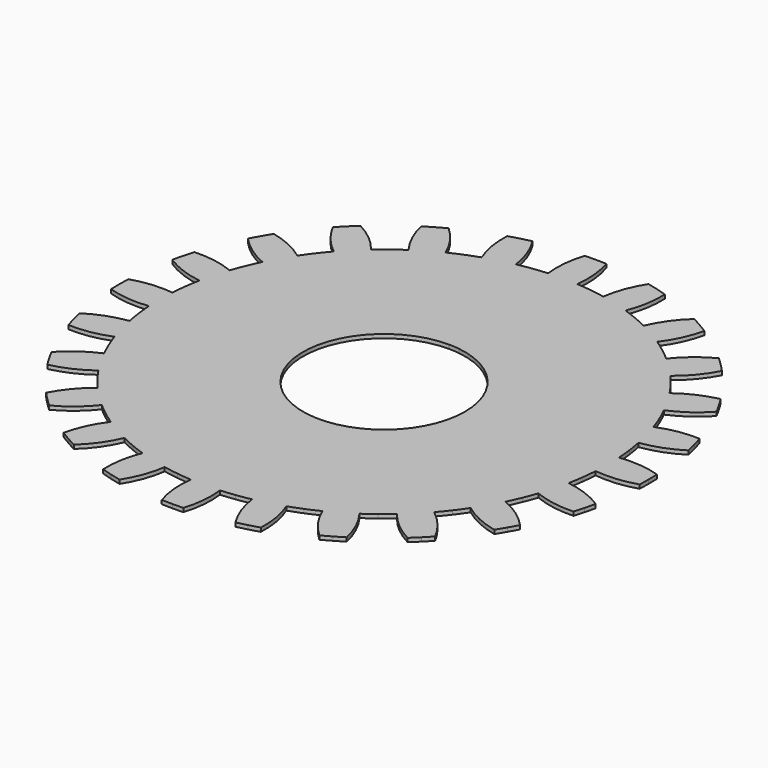
from build123d import *

# Parameters (mm, degrees)
F1_DEPTH = 0.1


with BuildPart() as f1:
    # F0 (on Top) → F1 (new body)
    with BuildSketch(Plane.XY):
        with BuildLine():
            Line((0.759771, 5.771035), (0.274758, 2.086991))
            ThreePointArc((0.274758, 2.086991), (1.582623, 1.387923), (2.105, 0))
            ThreePointArc((2.105, 0), (-1.48846, -1.48846), (0, 2.105))
            Line((0, 2.105), (0, 6.879167))
            ThreePointArc((0, 6.879167), (-0.14069, 6.877728), (-0.281322, 6.873412))
            ThreePointArc((-0.281322, 6.873412), (-0.388634, 6.346268), (-0.380701, 5.80837))
            ThreePointArc((-0.380701, 5.80837), (-0.570541, 5.792804), (-0.759771, 5.771035))
            ThreePointArc((-0.759771, 5.771035), (-0.948187, 5.743086), (-1.135588, 5.708988))
            ThreePointArc((-1.135588, 5.708988), (-1.267144, 6.23061), (-1.507234, 6.712018))
            ThreePointArc((-1.507234, 6.712018), (-1.644191, 6.679788), (-1.780459, 6.644765))
            ThreePointArc((-1.780459, 6.644765), (-1.915983, 6.606962), (-2.050706, 6.566395))
            ThreePointArc((-2.050706, 6.566395), (-2.017926, 6.029438), (-1.871046, 5.511922))
            ThreePointArc((-1.871046, 5.511922), (-2.050389, 5.447752), (-2.227536, 5.377749))
            ThreePointArc((-2.227536, 5.377749), (-2.402299, 5.301987), (-2.574489, 5.220547))
            ThreePointArc((-2.574489, 5.220547), (-2.836567, 5.690346), (-3.193074, 6.09321))
            ThreePointArc((-3.193074, 6.09321), (-3.317023, 6.026632), (-3.439583, 5.957533))
            ThreePointArc((-3.439583, 5.957533), (-3.560705, 5.885942), (-3.680338, 5.811888))
            ThreePointArc((-3.680338, 5.811888), (-3.5097, 5.301713), (-3.233882, 4.839846))
            ThreePointArc((-3.233882, 4.839846), (-3.390506, 4.731445), (-3.543499, 4.617978))
            ThreePointArc((-3.543499, 4.617978), (-3.692698, 4.499565), (-3.837942, 4.376334))
            ThreePointArc((-3.837942, 4.376334), (-4.212684, 4.762295), (-4.661312, 5.059161))
            ThreePointArc((-4.661312, 5.059161), (-4.763805, 4.962771), (-4.864305, 4.864305))
            ThreePointArc((-4.864305, 4.864305), (-4.962771, 4.763805), (-5.059161, 4.661312))
            ThreePointArc((-5.059161, 4.661312), (-4.762295, 4.212684), (-4.376334, 3.837942))
            ThreePointArc((-4.376334, 3.837942), (-4.499565, 3.692698), (-4.617978, 3.543499))
            ThreePointArc((-4.617978, 3.543499), (-4.731445, 3.390506), (-4.839846, 3.233882))
            ThreePointArc((-4.839846, 3.233882), (-5.301713, 3.5097), (-5.811888, 3.680338))
            ThreePointArc((-5.811888, 3.680338), (-5.885942, 3.560705), (-5.957533, 3.439583))
            ThreePointArc((-5.957533, 3.439583), (-6.026632, 3.317023), (-6.09321, 3.193074))
            ThreePointArc((-6.09321, 3.193074), (-5.690346, 2.836567), (-5.220547, 2.574489))
            ThreePointArc((-5.220547, 2.574489), (-5.301987, 2.402299), (-5.377749, 2.227536))
            ThreePointArc((-5.377749, 2.227536), (-5.447752, 2.050389), (-5.511922, 1.871046))
            ThreePointArc((-5.511922, 1.871046), (-6.029438, 2.017926), (-6.566395, 2.050706))
            ThreePointArc((-6.566395, 2.050706), (-6.606962, 1.915983), (-6.644765, 1.780459))
            ThreePointArc((-6.644765, 1.780459), (-6.679788, 1.644191), (-6.712018, 1.507234))
            ThreePointArc((-6.712018, 1.507234), (-6.23061, 1.267144), (-5.708988, 1.135588))
            ThreePointArc((-5.708988, 1.135588), (-5.743086, 0.948187), (-5.771035, 0.759771))
            ThreePointArc((-5.771035, 0.759771), (-5.792804, 0.570541), (-5.80837, 0.380701))
            ThreePointArc((-5.80837, 0.380701), (-6.346268, 0.388634), (-6.873412, 0.281322))
            ThreePointArc((-6.873412, 0.281322), (-6.877728, 0.14069), (-6.879167, 0))
            ThreePointArc((-6.879167, 0), (-6.877728, -0.14069), (-6.873412, -0.281322))
            ThreePointArc((-6.873412, -0.281322), (-6.346268, -0.388634), (-5.80837, -0.380701))
            ThreePointArc((-5.80837, -0.380701), (-5.792804, -0.570541), (-5.771035, -0.759771))
            ThreePointArc((-5.771035, -0.759771), (-5.743086, -0.948187), (-5.708988, -1.135588))
            ThreePointArc((-5.708988, -1.135588), (-6.23061, -1.267144), (-6.712018, -1.507234))
            ThreePointArc((-6.712018, -1.507234), (-6.679788, -1.644191), (-6.644765, -1.780459))
            ThreePointArc((-6.644765, -1.780459), (-6.606962, -1.915983), (-6.566395, -2.050706))
            ThreePointArc((-6.566395, -2.050706), (-6.029438, -2.017926), (-5.511922, -1.871046))
            ThreePointArc((-5.511922, -1.871046), (-5.447752, -2.050389), (-5.377749, -2.227536))
            ThreePointArc((-5.377749, -2.227536), (-5.301987, -2.402299), (-5.220547, -2.574489))
            ThreePointArc((-5.220547, -2.574489), (-5.690346, -2.836567), (-6.09321, -3.193074))
            ThreePointArc((-6.09321, -3.193074), (-6.026632, -3.317023), (-5.957533, -3.439583))
            ThreePointArc((-5.957533, -3.439583), (-5.885942, -3.560705), (-5.811888, -3.680338))
            ThreePointArc((-5.811888, -3.680338), (-5.301713, -3.5097), (-4.839846, -3.233882))
            ThreePointArc((-4.839846, -3.233882), (-4.731445, -3.390506), (-4.617978, -3.543499))
            ThreePointArc((-4.617978, -3.543499), (-4.499565, -3.692698), (-4.376334, -3.837942))
            ThreePointArc((-4.376334, -3.837942), (-4.762295, -4.212684), (-5.059161, -4.661312))
            ThreePointArc((-5.059161, -4.661312), (-4.962771, -4.763805), (-4.864305, -4.864305))
            ThreePointArc((-4.864305, -4.864305), (-4.763805, -4.962771), (-4.661312, -5.059161))
            ThreePointArc((-4.661312, -5.059161), (-4.212684, -4.762295), (-3.837942, -4.376334))
            ThreePointArc((-3.837942, -4.376334), (-3.692698, -4.499565), (-3.543499, -4.617978))
            ThreePointArc((-3.543499, -4.617978), (-3.390506, -4.731445), (-3.233882, -4.839846))
            ThreePointArc((-3.233882, -4.839846), (-3.5097, -5.301713), (-3.680338, -5.811888))
            ThreePointArc((-3.680338, -5.811888), (-3.560705, -5.885942), (-3.439583, -5.957533))
            ThreePointArc((-3.439583, -5.957533), (-3.317023, -6.026632), (-3.193074, -6.09321))
            ThreePointArc((-3.193074, -6.09321), (-2.836567, -5.690346), (-2.574489, -5.220547))
            ThreePointArc((-2.574489, -5.220547), (-2.402299, -5.301987), (-2.227536, -5.377749))
            ThreePointArc((-2.227536, -5.377749), (-2.050389, -5.447752), (-1.871046, -5.511922))
            ThreePointArc((-1.871046, -5.511922), (-2.017926, -6.029438), (-2.050706, -6.566395))
            ThreePointArc((-2.050706, -6.566395), (-1.915983, -6.606962), (-1.780459, -6.644765))
            ThreePointArc((-1.780459, -6.644765), (-1.644191, -6.679788), (-1.507234, -6.712018))
            ThreePointArc((-1.507234, -6.712018), (-1.267144, -6.23061), (-1.135588, -5.708988))
            ThreePointArc((-1.135588, -5.708988), (-0.948187, -5.743086), (-0.759771, -5.771035))
            ThreePointArc((-0.759771, -5.771035), (-0.570541, -5.792804), (-0.380701, -5.80837))
            ThreePointArc((-0.380701, -5.80837), (-0.388634, -6.346268), (-0.281322, -6.873412))
            ThreePointArc((-0.281322, -6.873412), (-0.14069, -6.877728), (0, -6.879167))
            ThreePointArc((0, -6.879167), (0.14069, -6.877728), (0.281322, -6.873412))
            ThreePointArc((0.281322, -6.873412), (0.388634, -6.346268), (0.380701, -5.80837))
            ThreePointArc((0.380701, -5.80837), (0.570541, -5.792804), (0.759771, -5.771035))
            ThreePointArc((0.759771, -5.771035), (0.948187, -5.743086), (1.135588, -5.708988))
            ThreePointArc((1.135588, -5.708988), (1.267144, -6.23061), (1.507234, -6.712018))
            ThreePointArc((1.507234, -6.712018), (1.644191, -6.679788), (1.780459, -6.644765))
            ThreePointArc((1.780459, -6.644765), (1.915983, -6.606962), (2.050706, -6.566395))
            ThreePointArc((2.050706, -6.566395), (2.017926, -6.029438), (1.871046, -5.511922))
            ThreePointArc((1.871046, -5.511922), (2.050389, -5.447752), (2.227536, -5.377749))
            ThreePointArc((2.227536, -5.377749), (2.402299, -5.301987), (2.574489, -5.220547))
            ThreePointArc((2.574489, -5.220547), (2.836567, -5.690346), (3.193074, -6.09321))
            ThreePointArc((3.193074, -6.09321), (3.317023, -6.026632), (3.439583, -5.957533))
            ThreePointArc((3.439583, -5.957533), (3.560705, -5.885942), (3.680338, -5.811888))
            ThreePointArc((3.680338, -5.811888), (3.5097, -5.301713), (3.233882, -4.839846))
            ThreePointArc((3.233882, -4.839846), (3.390506, -4.731445), (3.543499, -4.617978))
            ThreePointArc((3.543499, -4.617978), (3.692698, -4.499565), (3.837942, -4.376334))
            ThreePointArc((3.837942, -4.376334), (4.212684, -4.762295), (4.661312, -5.059161))
            ThreePointArc((4.661312, -5.059161), (4.763805, -4.962771), (4.864305, -4.864305))
            ThreePointArc((4.864305, -4.864305), (4.962771, -4.763805), (5.059161, -4.661312))
            ThreePointArc((5.059161, -4.661312), (4.762295, -4.212684), (4.376334, -3.837942))
            ThreePointArc((4.376334, -3.837942), (4.499565, -3.692698), (4.617978, -3.543499))
            ThreePointArc((4.617978, -3.543499), (4.731445, -3.390506), (4.839846, -3.233882))
            ThreePointArc((4.839846, -3.233882), (5.301713, -3.5097), (5.811888, -3.680338))
            ThreePointArc((5.811888, -3.680338), (5.885942, -3.560705), (5.957533, -3.439583))
            ThreePointArc((5.957533, -3.439583), (6.026632, -3.317023), (6.09321, -3.193074))
            ThreePointArc((6.09321, -3.193074), (5.690346, -2.836567), (5.220547, -2.574489))
            ThreePointArc((5.220547, -2.574489), (5.301987, -2.402299), (5.377749, -2.227536))
            ThreePointArc((5.377749, -2.227536), (5.447752, -2.050389), (5.511922, -1.871046))
            ThreePointArc((5.511922, -1.871046), (6.029438, -2.017926), (6.566395, -2.050706))
            ThreePointArc((6.566395, -2.050706), (6.606962, -1.915983), (6.644765, -1.780459))
            ThreePointArc((6.644765, -1.780459), (6.679788, -1.644191), (6.712018, -1.507234))
            ThreePointArc((6.712018, -1.507234), (6.23061, -1.267144), (5.708988, -1.135588))
            ThreePointArc((5.708988, -1.135588), (5.743086, -0.948187), (5.771035, -0.759771))
            ThreePointArc((5.771035, -0.759771), (5.792804, -0.570541), (5.80837, -0.380701))
            ThreePointArc((5.80837, -0.380701), (6.346268, -0.388634), (6.873412, -0.281322))
            ThreePointArc((6.873412, -0.281322), (6.877728, -0.14069), (6.879167, 0))
            ThreePointArc((6.879167, 0), (6.877728, 0.14069), (6.873412, 0.281322))
            ThreePointArc((6.873412, 0.281322), (6.346268, 0.388634), (5.80837, 0.380701))
            ThreePointArc((5.80837, 0.380701), (5.792804, 0.570541), (5.771035, 0.759771))
            ThreePointArc((5.771035, 0.759771), (5.743086, 0.948187), (5.708988, 1.135588))
            ThreePointArc((5.708988, 1.135588), (6.23061, 1.267144), (6.712018, 1.507234))
            ThreePointArc((6.712018, 1.507234), (6.679788, 1.644191), (6.644765, 1.780459))
            ThreePointArc((6.644765, 1.780459), (6.606962, 1.915983), (6.566395, 2.050706))
            ThreePointArc((6.566395, 2.050706), (6.029438, 2.017926), (5.511922, 1.871046))
            ThreePointArc((5.511922, 1.871046), (5.447752, 2.050389), (5.377749, 2.227536))
            ThreePointArc((5.377749, 2.227536), (5.301987, 2.402299), (5.220547, 2.574489))
            ThreePointArc((5.220547, 2.574489), (5.690346, 2.836567), (6.09321, 3.193074))
            ThreePointArc((6.09321, 3.193074), (6.026632, 3.317023), (5.957533, 3.439583))
            ThreePointArc((5.957533, 3.439583), (5.885942, 3.560705), (5.811888, 3.680338))
            ThreePointArc((5.811888, 3.680338), (5.301713, 3.5097), (4.839846, 3.233882))
            ThreePointArc((4.839846, 3.233882), (4.731445, 3.390506), (4.617978, 3.543499))
            ThreePointArc((4.617978, 3.543499), (4.499565, 3.692698), (4.376334, 3.837942))
            ThreePointArc((4.376334, 3.837942), (4.762295, 4.212684), (5.059161, 4.661312))
            ThreePointArc((5.059161, 4.661312), (4.962771, 4.763805), (4.864305, 4.864305))
            ThreePointArc((4.864305, 4.864305), (4.763805, 4.962771), (4.661312, 5.059161))
            ThreePointArc((4.661312, 5.059161), (4.212684, 4.762295), (3.837942, 4.376334))
            ThreePointArc((3.837942, 4.376334), (3.692698, 4.499565), (3.543499, 4.617978))
            ThreePointArc((3.543499, 4.617978), (3.390506, 4.731445), (3.233882, 4.839846))
            ThreePointArc((3.233882, 4.839846), (3.5097, 5.301713), (3.680338, 5.811888))
            ThreePointArc((3.680338, 5.811888), (3.560705, 5.885942), (3.439583, 5.957533))
            ThreePointArc((3.439583, 5.957533), (3.317023, 6.026632), (3.193074, 6.09321))
            ThreePointArc((3.193074, 6.09321), (2.836567, 5.690346), (2.574489, 5.220547))
            ThreePointArc((2.574489, 5.220547), (2.402299, 5.301987), (2.227536, 5.377749))
            ThreePointArc((2.227536, 5.377749), (2.050389, 5.447752), (1.871046, 5.511922))
            ThreePointArc((1.871046, 5.511922), (2.017926, 6.029438), (2.050706, 6.566395))
            ThreePointArc((2.050706, 6.566395), (1.915983, 6.606962), (1.780459, 6.644765))
            ThreePointArc((1.780459, 6.644765), (1.644191, 6.679788), (1.507234, 6.712018))
            ThreePointArc((1.507234, 6.712018), (1.267144, 6.23061), (1.135588, 5.708988))
            ThreePointArc((1.135588, 5.708988), (0.948187, 5.743086), (0.759771, 5.771035))
        make_face()
        with BuildLine():
            ThreePointArc((0, 2.105), (0.137674, 2.100493), (0.274758, 2.086991))
            Line((0.274758, 2.086991), (0.759771, 5.771035))
            ThreePointArc((0.759771, 5.771035), (0.570541, 5.792804), (0.380701, 5.80837))
            ThreePointArc((0.380701, 5.80837), (0.388634, 6.346268), (0.281322, 6.873412))
            ThreePointArc((0.281322, 6.873412), (0.14069, 6.877728), (0, 6.879167))
            Line((0, 6.879167), (0, 2.105))
        make_face()
    extrude(amount=F1_DEPTH)


solid = f1.part
